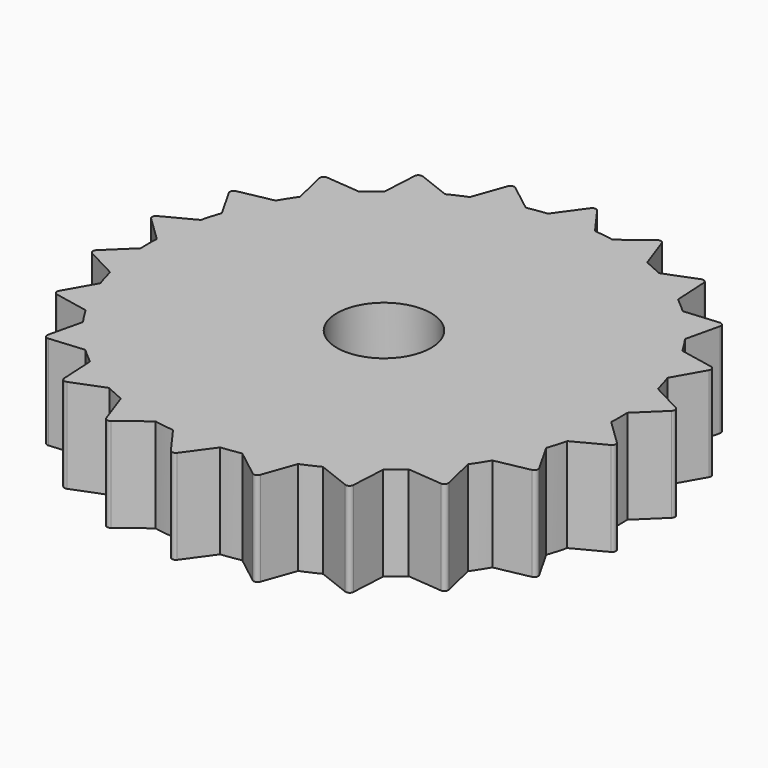
from build123d import *

# Parameters (mm, degrees)
F1_DEPTH = 6
F2_R     = 6
F3_DEPTH = 25


with BuildPart() as f1:
    # F0 (on Top) → F1 (new body, symmetric)
    with BuildSketch(Plane.XY):
        with BuildLine():
            Line((-25.53717, 21.591896), (-24.523422, 17.280097))
            ThreePointArc((-24.523422, 17.280097), (-25.237606, 16.219225), (-25.905927, 15.128878))
            Line((-25.905927, 15.128878), (-30.249203, 14.259829))
            ThreePointArc((-30.249203, 14.259829), (-30.605918, 13.977255), (-30.585875, 13.52262))
            Line((-30.585875, 13.52262), (-28.398417, 9.671086))
            ThreePointArc((-28.398417, 9.671086), (-28.784789, 8.451977), (-29.118852, 7.217509))
            Line((-29.118852, 7.217509), (-33.041356, 5.16002))
            ThreePointArc((-33.041356, 5.16002), (-33.304011, 4.788394), (-33.156694, 4.357822))
            Line((-33.156694, 4.357822), (-29.972742, 1.27858))
            ThreePointArc((-29.972742, 1.27858), (-30, 0), (-29.972742, -1.27858))
            Line((-29.972742, -1.27858), (-33.156694, -4.357822))
            ThreePointArc((-33.156694, -4.357822), (-33.304011, -4.788394), (-33.041356, -5.16002))
            Line((-33.041356, -5.16002), (-29.118852, -7.217509))
            ThreePointArc((-29.118852, -7.217509), (-28.784789, -8.451977), (-28.398417, -9.671086))
            Line((-28.398417, -9.671086), (-30.585875, -13.52262))
            ThreePointArc((-30.585875, -13.52262), (-30.605918, -13.977255), (-30.249203, -14.259829))
            Line((-30.249203, -14.259829), (-25.905927, -15.128878))
            ThreePointArc((-25.905927, -15.128878), (-25.237606, -16.219225), (-24.523422, -17.280097))
            Line((-24.523422, -17.280097), (-25.53717, -21.591896))
            ThreePointArc((-25.53717, -21.591896), (-25.428316, -22.033761), (-25.00644, -22.204391))
            Line((-25.00644, -22.204391), (-20.594258, -21.814595))
            ThreePointArc((-20.594258, -21.814595), (-19.645822, -22.672487), (-18.661685, -23.489178))
            Line((-18.661685, -23.489178), (-18.419595, -27.911925))
            ThreePointArc((-18.419595, -27.911925), (-18.190663, -28.305223), (-17.737803, -28.350085))
            Line((-17.737803, -28.350085), (-13.614164, -26.733023))
            ThreePointArc((-13.614164, -26.733023), (-12.46245, -27.28896), (-11.28809, -27.795306))
            Line((-11.28809, -27.795306), (-9.809774, -31.970695))
            ThreePointArc((-9.809774, -31.970695), (-9.47931, -32.283565), (-9.032156, -32.199024))
            Line((-9.032156, -32.199024), (-5.531132, -29.485701))
            ThreePointArc((-5.531132, -29.485701), (-4.269445, -29.694643), (-3, -29.849623))
            Line((-3, -29.849623), (-0.405223, -33.43939))
            ThreePointArc((-0.405223, -33.43939), (0, -33.646484), (0.405223, -33.43939))
            Line((0.405223, -33.43939), (3, -29.849623))
            ThreePointArc((3, -29.849623), (4.269445, -29.694643), (5.531132, -29.485701))
            Line((5.531132, -29.485701), (9.032156, -32.199024))
            ThreePointArc((9.032156, -32.199024), (9.47931, -32.283565), (9.809774, -31.970695))
            Line((9.809774, -31.970695), (11.28809, -27.795306))
            ThreePointArc((11.28809, -27.795306), (12.46245, -27.28896), (13.614164, -26.733023))
            Line((13.614164, -26.733023), (17.737803, -28.350085))
            ThreePointArc((17.737803, -28.350085), (18.190663, -28.305223), (18.419595, -27.911925))
            Line((18.419595, -27.911925), (18.661685, -23.489178))
            ThreePointArc((18.661685, -23.489178), (19.645822, -22.672487), (20.594258, -21.814595))
            Line((20.594258, -21.814595), (25.00644, -22.204391))
            ThreePointArc((25.00644, -22.204391), (25.428316, -22.033761), (25.53717, -21.591896))
            Line((25.53717, -21.591896), (24.523422, -17.280097))
            ThreePointArc((24.523422, -17.280097), (25.237606, -16.219225), (25.905927, -15.128878))
            Line((25.905927, -15.128878), (30.249203, -14.259829))
            ThreePointArc((30.249203, -14.259829), (30.605918, -13.977255), (30.585875, -13.52262))
            Line((30.585875, -13.52262), (28.398417, -9.671086))
            ThreePointArc((28.398417, -9.671086), (28.784789, -8.451977), (29.118852, -7.217509))
            Line((29.118852, -7.217509), (33.041356, -5.16002))
            ThreePointArc((33.041356, -5.16002), (33.304011, -4.788394), (33.156694, -4.357822))
            Line((33.156694, -4.357822), (29.972742, -1.27858))
            ThreePointArc((29.972742, -1.27858), (30, 0), (29.972742, 1.27858))
            Line((29.972742, 1.27858), (33.156694, 4.357822))
            ThreePointArc((33.156694, 4.357822), (33.304011, 4.788394), (33.041356, 5.16002))
            Line((33.041356, 5.16002), (29.118852, 7.217509))
            ThreePointArc((29.118852, 7.217509), (28.784789, 8.451977), (28.398417, 9.671086))
            Line((28.398417, 9.671086), (30.585875, 13.52262))
            ThreePointArc((30.585875, 13.52262), (30.605918, 13.977255), (30.249203, 14.259829))
            Line((30.249203, 14.259829), (25.905927, 15.128878))
            ThreePointArc((25.905927, 15.128878), (25.237606, 16.219225), (24.523422, 17.280097))
            Line((24.523422, 17.280097), (25.53717, 21.591896))
            ThreePointArc((25.53717, 21.591896), (25.428316, 22.033761), (25.00644, 22.204391))
            Line((25.00644, 22.204391), (20.594258, 21.814595))
            ThreePointArc((20.594258, 21.814595), (19.645822, 22.672487), (18.661685, 23.489178))
            Line((18.661685, 23.489178), (18.419595, 27.911925))
            ThreePointArc((18.419595, 27.911925), (18.190663, 28.305223), (17.737803, 28.350085))
            Line((17.737803, 28.350085), (13.614164, 26.733023))
            ThreePointArc((13.614164, 26.733023), (12.46245, 27.28896), (11.28809, 27.795306))
            Line((11.28809, 27.795306), (9.809774, 31.970695))
            ThreePointArc((9.809774, 31.970695), (9.47931, 32.283565), (9.032156, 32.199024))
            Line((9.032156, 32.199024), (5.531132, 29.485701))
            ThreePointArc((5.531132, 29.485701), (4.269445, 29.694643), (3, 29.849623))
            Line((3, 29.849623), (0.405223, 33.43939))
            ThreePointArc((0.405223, 33.43939), (0, 33.646484), (-0.405223, 33.43939))
            Line((-0.405223, 33.43939), (-3, 29.849623))
            ThreePointArc((-3, 29.849623), (-4.269445, 29.694643), (-5.531132, 29.485701))
            Line((-5.531132, 29.485701), (-9.032156, 32.199024))
            ThreePointArc((-9.032156, 32.199024), (-9.47931, 32.283565), (-9.809774, 31.970695))
            Line((-9.809774, 31.970695), (-11.28809, 27.795306))
            ThreePointArc((-11.28809, 27.795306), (-12.46245, 27.28896), (-13.614164, 26.733023))
            Line((-13.614164, 26.733023), (-17.737803, 28.350085))
            ThreePointArc((-17.737803, 28.350085), (-18.190663, 28.305223), (-18.419595, 27.911925))
            Line((-18.419595, 27.911925), (-18.661685, 23.489178))
            ThreePointArc((-18.661685, 23.489178), (-19.645822, 22.672487), (-20.594258, 21.814595))
            Line((-20.594258, 21.814595), (-25.00644, 22.204391))
            ThreePointArc((-25.00644, 22.204391), (-25.428316, 22.033761), (-25.53717, 21.591896))
        make_face()
    extrude(amount=F1_DEPTH, both=True)

    # F2 (on face) → F3 (cut)
    with BuildSketch(Plane(origin=(0, 0, -6), x_dir=(1, 0, 0), z_dir=(0, 0, -1))):
        Circle(F2_R)
    extrude(amount=-F3_DEPTH, mode=Mode.SUBTRACT)


solid = f1.part
